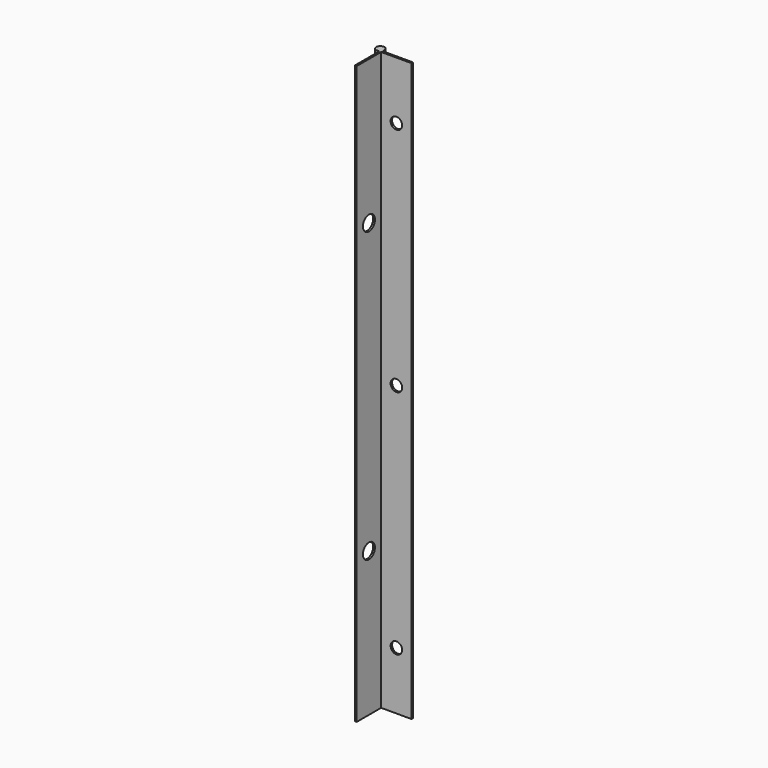
from build123d import *

# Parameters (mm, degrees)
F1_DEPTH = 250
F2_R     = 2.5
F3_DEPTH = 14.001
F4_R     = 3.25
F5_DEPTH = 3.601


with BuildPart() as f1:
    # F0 (on Top) → F1 (new body)
    with BuildSketch(Plane.XY):
        with BuildLine():
            ThreePointArc((0, 1.8), (-3.072792, 3.072792), (-1.8, 0))
            ThreePointArc((-1.8, 0), (-0.527208, 0.527208), (0, 1.8))
        make_face()
        with BuildLine():
            Line((0, -13.2), (0, 0))
            Line((0, 0), (13.2, 0))
            Line((13.2, 0), (13.2, 0.8))
            Line((13.2, 0.8), (0, 0.8))
            Line((0, 0.8), (0, 1.8))
            ThreePointArc((0, 1.8), (-0.527208, 0.527208), (-1.8, 0))
            Line((-1.8, 0), (-0.8, 0))
            Line((-0.8, 0), (-0.8, -13.2))
            Line((-0.8, -13.2), (0, -13.2))
        make_face()
    extrude(amount=F1_DEPTH)

    # F2 (on face) → F3 (cut, through all)
    with BuildSketch(Plane(origin=(0, 0.8, 0), x_dir=(-1, 0, 0), z_dir=(0, 1, 0))):
        with Locations((-6.6, 25)):
            Circle(F2_R)
        with Locations((-6.6, 125)):
            Circle(F2_R)
        with Locations((-6.6, 225)):
            Circle(F2_R)
    extrude(amount=-F3_DEPTH, mode=Mode.SUBTRACT)

    # F4 (on face) → F5 (cut, through all)
    with BuildSketch(Plane.YZ):
        with Locations((-6.6, 187.5)):
            Circle(F4_R)
        with Locations((-6.6, 62.5)):
            Circle(F4_R)
    extrude(amount=-F5_DEPTH, mode=Mode.SUBTRACT)


solid = f1.part
